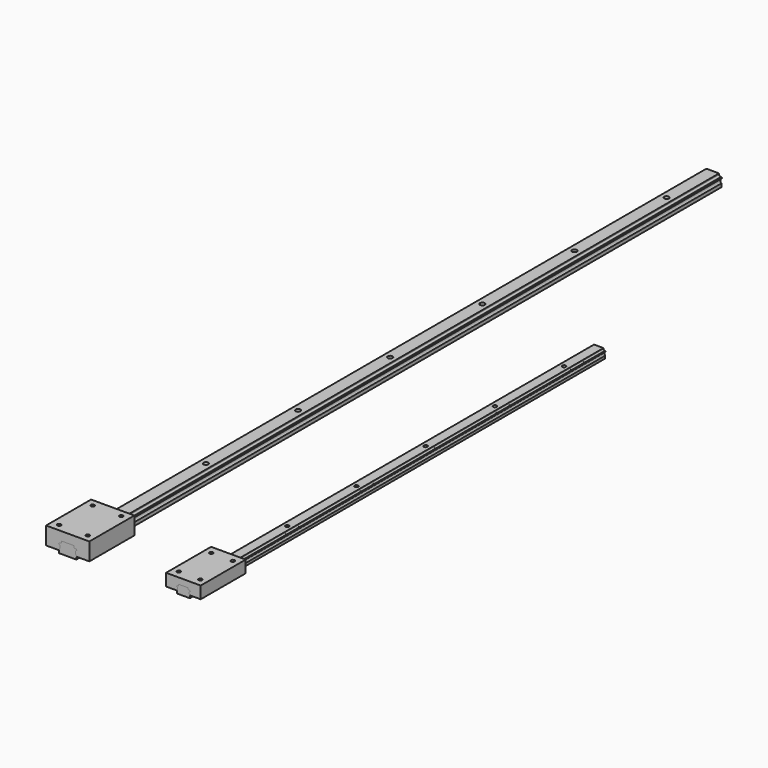
from build123d import *

# Parameters (mm, degrees)
F1_DEPTH    = 700
F2_DEPTH    = 600
F4_D        = 4.2
F4_DEPTH    = 11
F4_TIP      = 1.2618073
F4_2_D      = 4.2
F4_2_DEPTH  = 11
F4_2_TIP    = 1.2618073
F5_SCALE    = 1.331
F8_DEPTH    = 65
F10_D       = 4.2
F10_DEPTH   = 20
F10_START   = 3
F10_TIP     = 1.2618073
F10_2_D     = 4.2
F10_2_DEPTH = 20
F10_2_START = 3
F10_2_TIP   = 1.2618073


with BuildPart() as f1:
    # F0 (on Front) → F1 (new body)
    with BuildSketch(Plane.XZ):
        with BuildLine():
            Line((58.8797961473, 76.4125111699), (47.8797961473, 76.4125111699))
            Line((47.8797961473, 76.4125111699), (47.8797961473, 75.4125111699))
            ThreePointArc((47.8797961473, 75.4125111699), (47.5869029285, 74.7054043887), (46.8797961473, 74.4125111699))
            Line((46.8797961473, 74.4125111699), (45.8797961473, 74.4125111699))
            Line((45.8797961473, 74.4125111699), (45.8797961473, 73.9125111699))
            Line((45.8797961473, 73.9125111699), (45.3797961473, 73.9125111699))
            Line((45.3797961473, 73.9125111699), (45.3797961473, 73.4125111699))
            Line((45.3797961473, 73.4125111699), (45.8797961473, 73.4125111699))
            ThreePointArc((45.8797961473, 73.4125111699), (46.8311502409, 71.4125111699), (45.8797961473, 69.4125111699))
            Line((45.8797961473, 69.4125111699), (45.8797961473, 66.4125111699))
            Line((45.8797961473, 66.4125111699), (60.8797961473, 66.4125111699))
            Line((60.8797961473, 66.4125111699), (60.8797961473, 69.4125111699))
            ThreePointArc((60.8797961473, 69.4125111699), (59.9284420538, 71.4125111699), (60.8797961473, 73.4125111699))
            Line((60.8797961473, 73.4125111699), (61.3797961473, 73.4125111699))
            Line((61.3797961473, 73.4125111699), (61.3797961473, 73.9125111699))
            Line((61.3797961473, 73.9125111699), (60.8797961473, 73.9125111699))
            Line((60.8797961473, 73.9125111699), (60.8797961473, 74.4125111699))
            Line((60.8797961473, 74.4125111699), (59.8797961473, 74.4125111699))
            ThreePointArc((59.8797961473, 74.4125111699), (59.1726893662, 74.7054043887), (58.8797961473, 75.4125111699))
            Line((58.8797961473, 75.4125111699), (58.8797961473, 76.4125111699))
        make_face()
    extrude(amount=-F1_DEPTH)

    # F4
    with Locations(Plane.XY.offset(76.4125111699)):
        with Locations((53.3797961473, 50), (53.3797961473, 150), (53.3797961473, 250), (53.3797961473, 350), (53.3797961473, 450), (53.3797961473, 550), (53.3797961473, 650), (187.0537477732, 50), (187.0537477732, 150), (187.0537477732, 250), (187.0537477732, 350), (187.0537477732, 450), (187.0537477732, 550)):
            Hole(F4_D / 2, depth=F4_DEPTH)
            with Locations((0, 0, -(F4_DEPTH + F4_TIP / 2))):  # 118° drill point
                Cone(0, F4_D / 2, F4_TIP, mode=Mode.SUBTRACT)


with BuildPart() as f2:
    # F0 (on Front) → F2 (new body)
    with BuildSketch(Plane.XZ):
        with BuildLine():
            Line((195.0537477732, 73.9125111699), (194.5537477732, 73.9125111699))
            Line((194.5537477732, 73.9125111699), (194.5537477732, 74.4125111699))
            Line((194.5537477732, 74.4125111699), (193.5537477732, 74.4125111699))
            ThreePointArc((193.5537477732, 74.4125111699), (192.846640992, 74.7054043887), (192.5537477732, 75.4125111699))
            Line((192.5537477732, 75.4125111699), (192.5537477732, 76.4125111699))
            Line((192.5537477732, 76.4125111699), (181.5537477732, 76.4125111699))
            Line((181.5537477732, 76.4125111699), (181.5537477732, 75.4125111699))
            ThreePointArc((181.5537477732, 75.4125111699), (181.2608545544, 74.7054043887), (180.5537477732, 74.4125111699))
            Line((180.5537477732, 74.4125111699), (179.5537477732, 74.4125111699))
            Line((179.5537477732, 74.4125111699), (179.5537477732, 73.9125111699))
            Line((179.5537477732, 73.9125111699), (179.0537477732, 73.9125111699))
            Line((179.0537477732, 73.9125111699), (179.0537477732, 73.4125111699))
            Line((179.0537477732, 73.4125111699), (179.5537477732, 73.4125111699))
            ThreePointArc((179.5537477732, 73.4125111699), (180.5051018667, 71.4125111699), (179.5537477732, 69.4125111699))
            Line((179.5537477732, 69.4125111699), (179.5537477732, 66.4125111699))
            Line((179.5537477732, 66.4125111699), (194.5537477732, 66.4125111699))
            Line((194.5537477732, 66.4125111699), (194.5537477732, 69.4125111699))
            ThreePointArc((194.5537477732, 69.4125111699), (193.6023936796, 71.4125111699), (194.5537477732, 73.4125111699))
            Line((194.5537477732, 73.4125111699), (195.0537477732, 73.4125111699))
            Line((195.0537477732, 73.4125111699), (195.0537477732, 73.9125111699))
        make_face()
    extrude(amount=-F2_DEPTH)

    # F4#2
    with Locations(Plane.XY.offset(76.4125111699)):
        with Locations((53.3797961473, 50), (53.3797961473, 150), (53.3797961473, 250), (53.3797961473, 350), (53.3797961473, 450), (53.3797961473, 550), (53.3797961473, 650), (187.0537477732, 50), (187.0537477732, 150), (187.0537477732, 250), (187.0537477732, 350), (187.0537477732, 450), (187.0537477732, 550)):
            Hole(F4_2_D / 2, depth=F4_2_DEPTH)
            with Locations((0, 0, -(F4_2_DEPTH + F4_2_TIP / 2))):  # 118° drill point
                Cone(0, F4_2_D / 2, F4_2_TIP, mode=Mode.SUBTRACT)


with BuildPart() as f1_1:
    # F5: moved
    add(f1.part.scale(F5_SCALE).moved(Location((-17.6687125248, 0, -25.2925411972))))


with BuildPart() as f8:
    # F7 (on Front) → F8 (new body)
    with BuildSketch(Plane.XZ):
        with BuildLine():
            Line((78.3797961473, 66.1025111699), (78.3797961473, 86.4125111699))
            Line((78.3797961473, 86.4125111699), (28.3797961473, 86.4125111699))
            Line((28.3797961473, 86.4125111699), (28.3797961473, 66.1025111699))
            Line((28.3797961473, 66.1025111699), (43.3972961473, 66.1025111699))
            Line((43.3972961473, 66.1025111699), (43.3972961473, 67.0955111699))
            ThreePointArc((43.3972961473, 67.0955111699), (44.6635484459, 69.7575111699), (43.3972961473, 72.4195111699))
            Line((43.3972961473, 72.4195111699), (42.7317961473, 72.4195111699))
            Line((42.7317961473, 72.4195111699), (42.7317961473, 73.0850111699))
            Line((42.7317961473, 73.0850111699), (43.3972961473, 73.0850111699))
            Line((43.3972961473, 73.0850111699), (43.3972961473, 73.7505111699))
            Line((43.3972961473, 73.7505111699), (44.7282961473, 73.7505111699))
            ThreePointArc((44.7282961473, 73.7505111699), (45.6694552731, 74.1403520442), (46.0592961473, 75.0815111699))
            Line((46.0592961473, 75.0815111699), (46.0592961473, 76.4125111699))
            Line((46.0592961473, 76.4125111699), (47.8797961473, 76.4125111699))
            Line((47.8797961473, 76.4125111699), (58.8797961473, 76.4125111699))
            Line((58.8797961473, 76.4125111699), (60.7002961473, 76.4125111699))
            Line((60.7002961473, 76.4125111699), (60.7002961473, 75.0815111699))
            ThreePointArc((60.7002961473, 75.0815111699), (61.0901370216, 74.1403520442), (62.0312961473, 73.7505111699))
            Line((62.0312961473, 73.7505111699), (63.3622961473, 73.7505111699))
            Line((63.3622961473, 73.7505111699), (63.3622961473, 73.0850111699))
            Line((63.3622961473, 73.0850111699), (64.0277961473, 73.0850111699))
            Line((64.0277961473, 73.0850111699), (64.0277961473, 72.4195111699))
            Line((64.0277961473, 72.4195111699), (63.3622961473, 72.4195111699))
            ThreePointArc((63.3622961473, 72.4195111699), (62.0960438488, 69.7575111699), (63.3622961473, 67.0955111699))
            Line((63.3622961473, 67.0955111699), (63.3622961473, 66.1025111699))
            Line((63.3622961473, 66.1025111699), (78.3797961473, 66.1025111699))
        make_face()
    extrude(amount=-F8_DEPTH)

    # F10
    # its depths count from where the whole tool has entered the part; down to there all is cleared
    with Locations(Plane.XY.offset(86.4125111699)):
        with Locations((36.7950791121, 56.6279292107, 0), (69.9645131826, 56.6279292107, 0), (69.9645131826, 8.3720707893, 0), (36.7950791121, 8.3720707893, 0), (174.6287798882, 9.1497214139, -F10_START), (199.4787156582, 9.1497214139, -F10_START), (199.4787156582, 55.8502785861, -F10_START), (174.6287798882, 55.8502785861, -F10_START)):
            Hole(F10_D / 2, depth=F10_DEPTH)
            with Locations((0, 0, -(F10_DEPTH + F10_TIP / 2))):  # 118° drill point
                Cone(0, F10_D / 2, F10_TIP, mode=Mode.SUBTRACT)


with BuildPart() as f8b:
    # F7 (on Front) → F8, piece 2 (new body)
    with BuildSketch(Plane.XZ):
        with BuildLine():
            Line((194.5537477732, 69.4125111699), (207.0537477732, 69.4125111699))
            Line((207.0537477732, 69.4125111699), (207.0537477732, 83.4125111699))
            Line((207.0537477732, 83.4125111699), (167.0537477732, 83.4125111699))
            Line((167.0537477732, 83.4125111699), (167.0537477732, 69.4125111699))
            Line((167.0537477732, 69.4125111699), (179.5537477732, 69.4125111699))
            ThreePointArc((179.5537477732, 69.4125111699), (180.5051018667, 71.4125111699), (179.5537477732, 73.4125111699))
            Line((179.5537477732, 73.4125111699), (179.0537477732, 73.4125111699))
            Line((179.0537477732, 73.4125111699), (179.0537477732, 73.9125111699))
            Line((179.0537477732, 73.9125111699), (179.5537477732, 73.9125111699))
            Line((179.5537477732, 73.9125111699), (179.5537477732, 74.4125111699))
            Line((179.5537477732, 74.4125111699), (180.5537477732, 74.4125111699))
            ThreePointArc((180.5537477732, 74.4125111699), (181.2608545544, 74.7054043887), (181.5537477732, 75.4125111699))
            Line((181.5537477732, 75.4125111699), (181.5537477732, 76.4125111699))
            Line((181.5537477732, 76.4125111699), (192.5537477732, 76.4125111699))
            Line((192.5537477732, 76.4125111699), (192.5537477732, 75.4125111699))
            ThreePointArc((192.5537477732, 75.4125111699), (192.846640992, 74.7054043887), (193.5537477732, 74.4125111699))
            Line((193.5537477732, 74.4125111699), (194.5537477732, 74.4125111699))
            Line((194.5537477732, 74.4125111699), (194.5537477732, 73.9125111699))
            Line((194.5537477732, 73.9125111699), (195.0537477732, 73.9125111699))
            Line((195.0537477732, 73.9125111699), (195.0537477732, 73.4125111699))
            Line((195.0537477732, 73.4125111699), (194.5537477732, 73.4125111699))
            ThreePointArc((194.5537477732, 73.4125111699), (193.6023936796, 71.4125111699), (194.5537477732, 69.4125111699))
        make_face()
    extrude(amount=-F8_DEPTH)

    # F10#2
    # its depths count from where the whole tool has entered the part; down to there all is cleared
    with Locations(Plane.XY.offset(86.4125111699)):
        with Locations((36.7950791121, 56.6279292107, 0), (69.9645131826, 56.6279292107, 0), (69.9645131826, 8.3720707893, 0), (36.7950791121, 8.3720707893, 0), (174.6287798882, 9.1497214139, -F10_2_START), (199.4787156582, 9.1497214139, -F10_2_START), (199.4787156582, 55.8502785861, -F10_2_START), (174.6287798882, 55.8502785861, -F10_2_START)):
            Hole(F10_2_D / 2, depth=F10_2_DEPTH)
            with Locations((0, 0, -(F10_2_DEPTH + F10_2_TIP / 2))):  # 118° drill point
                Cone(0, F10_2_D / 2, F10_2_TIP, mode=Mode.SUBTRACT)


solid = Compound([f2.part, f1_1.part, f8.part, f8b.part])
